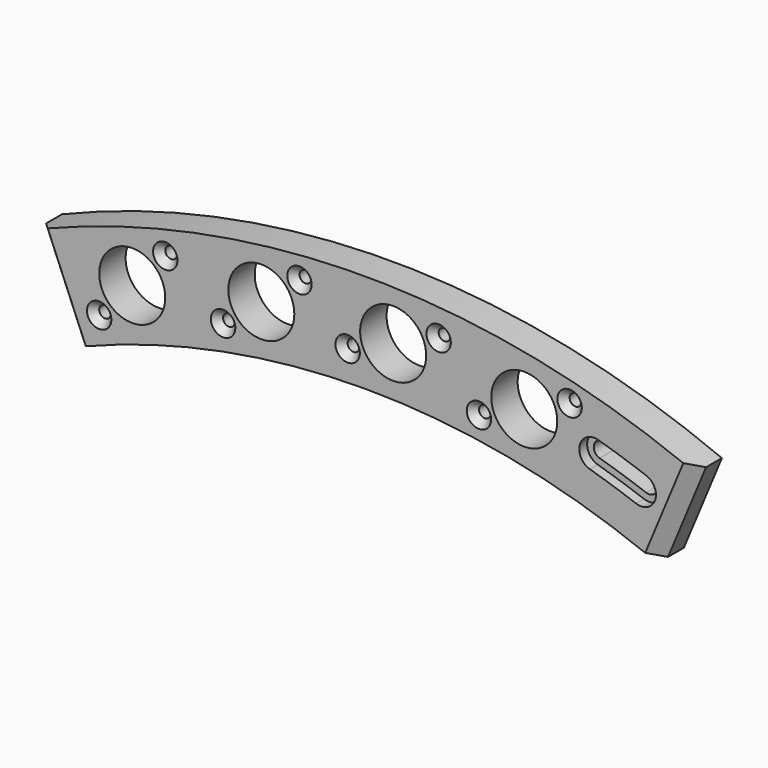
from build123d import *

# Parameters (mm, degrees)
F1_DEPTH       = 12.7
F2_R           = 12.7
F3_DEPTH       = 12.701
F4_SIZE        = 5.08
F6_D           = 4.4958
F6_CSINK_D     = 9.398
F6_CSINK_ANGLE = 82
F8_DEPTH       = 12.701
F10_DEPTH      = 3.81


with BuildPart() as f1:
    # F0 (on Front) → F1 (new body)
    with BuildSketch(Plane.XZ):
        with BuildLine():
            Line((112.346154, -35.169231), (127, 0))
            ThreePointArc((127, 0), (0, 25.4), (-127, 0))
            Line((-127, 0), (-112.346154, -35.169231))
            ThreePointArc((-112.346154, -35.169231), (0, -12.7), (112.346154, -35.169231))
        make_face()
    extrude(amount=F1_DEPTH)

    # F2 (on face) → F3 (cut, through all)
    with BuildSketch(Plane.XZ.offset(12.7)):
        with Locations((61.094761, 0.293023)):
            Circle(F2_R)
        with Locations((-89.780517, -6.884272)):
            Circle(F2_R)
        with Locations((10.635643, 6.168175)):
            Circle(F2_R)
        with Locations((-40.106974, 3.754295)):
            Circle(F2_R)
    extrude(amount=-F3_DEPTH, mode=Mode.SUBTRACT)

    # F4
    f4_edges = [f1.edges().sort_by_distance(p)[0] for p in [
        (-119.673077, -12.7, -17.584615),
        (119.673077, -12.7, -17.584615),
    ]]
    chamfer(f4_edges, length=F4_SIZE)

    # F6 (through all)
    with Locations(Plane.XZ.offset(12.7)):
        with Locations((-6.879248, -1.323894), (28.150535, 13.660243), (43.655768, -7.374051), (78.533754, 7.960097), (-77.058188, 7.294757), (-102.502846, -21.0633), (-54.807347, -8.361872), (-25.4066, 15.870463)):
            CounterSinkHole(F6_D / 2, F6_CSINK_D / 2, counter_sink_angle=F6_CSINK_ANGLE)

    # F7 (on face) → F8 (cut, through all)
    with BuildSketch(Plane.XZ.offset(12.7)):
        with BuildLine():
            ThreePointArc((104.981769, -15.270498), (109.048898, -13.367943), (107.146343, -9.300814))
            ThreePointArc((107.146343, -9.300814), (98.050229, -6.159313), (88.86221, -3.297736))
            ThreePointArc((88.86221, -3.297736), (84.919132, -5.445616), (87.067013, -9.388694))
            ThreePointArc((87.067013, -9.388694), (96.069415, -12.192461), (104.981769, -15.270498))
        make_face()
    extrude(amount=-F8_DEPTH, mode=Mode.SUBTRACT)

    # F9 (on face) → F10 (cut)
    with BuildSketch(Plane.XZ.offset(12.7)):
        with BuildLine():
            ThreePointArc((108.012172, -6.912941), (98.842554, -3.746053), (89.580289, -0.861353))
            ThreePointArc((89.580289, -0.861353), (82.482749, -4.727538), (86.348934, -11.825077))
            ThreePointArc((86.348934, -11.825077), (95.27709, -14.60572), (104.11594, -17.658371))
            ThreePointArc((104.11594, -17.658371), (111.436771, -14.233772), (108.012172, -6.912941))
        make_face()
        with BuildLine():
            ThreePointArc((88.86221, -3.297736), (98.050229, -6.159313), (107.146343, -9.300814))
            ThreePointArc((107.146343, -9.300814), (109.048898, -13.367943), (104.981769, -15.270498))
            ThreePointArc((104.981769, -15.270498), (96.069415, -12.192461), (87.067013, -9.388694))
            ThreePointArc((87.067013, -9.388694), (84.919132, -5.445616), (88.86221, -3.297736))
        make_face(mode=Mode.SUBTRACT)
    extrude(amount=-F10_DEPTH, mode=Mode.SUBTRACT)


solid = f1.part
